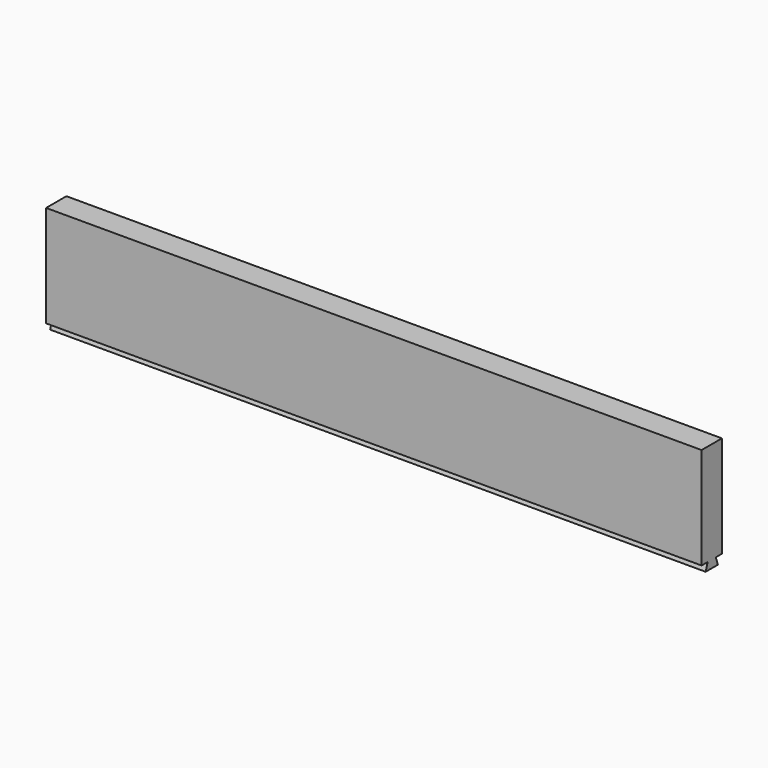
from build123d import *

# Parameters (mm, degrees)
F0_W     = 129
F0_H     = 21.5
F1_DEPTH = 5
F3_DEPTH = 129.001


with BuildPart() as f1:
    # F0 (on Front) → F1 (new body)
    with BuildSketch(Plane.XZ):
        Rectangle(F0_W, F0_H)
    extrude(amount=F1_DEPTH)

    # F2 (on face) → F3 (cut, through all)
    with BuildSketch(Plane.YZ.offset(64.5)):
        Polygon((-4, -10.75), (-3.5, -9.25), (-5, -9.25), (-5, -10.75), align=None)
        Polygon((-1.5, -9.25), (-1, -10.75), (0, -10.75), (0, -9.25), align=None)
    extrude(amount=-F3_DEPTH, mode=Mode.SUBTRACT)


solid = f1.part
